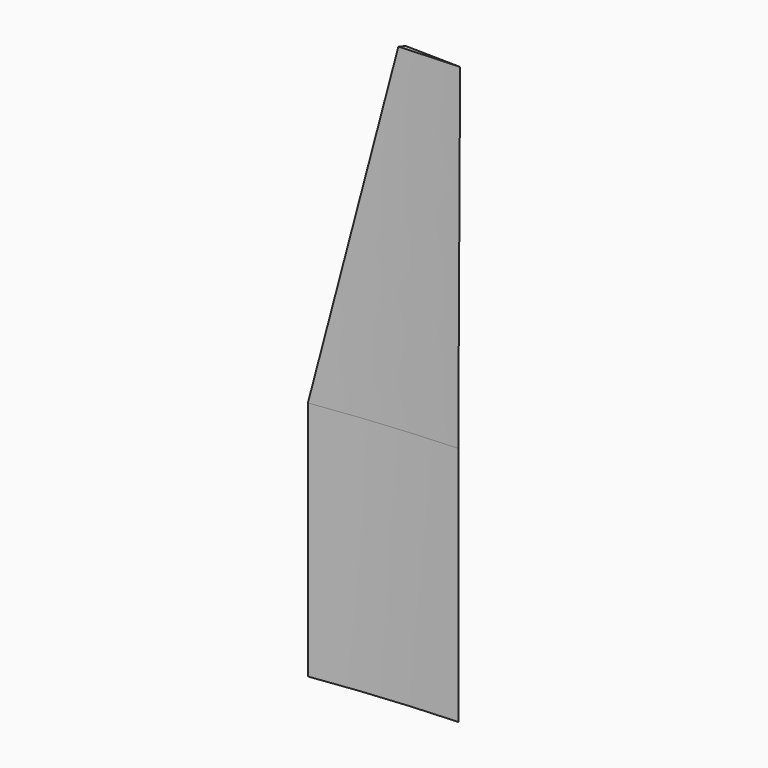
from build123d import *


with BuildPart() as f5:
    # F0 (on Top) → F5 section 0
    with BuildSketch(Plane.XY):
        with BuildLine():
            Line((17, 0), (0, 0))
            Line((0, 0), (-12, -2.7704182935))
            ThreePointArc((-12, -2.7704182935), (2.4660676715, -1.0300145801), (17, 0))
        make_face()
    # F2 (on offset) → F5 section 1
    with BuildSketch(Plane.XY.offset(50)):
        with BuildLine():
            Line((0, 0), (-12, -2.7704182935))
            ThreePointArc((-12, -2.7704182935), (2.4660676715, -1.0300145801), (17, 0))
            Line((17, 0), (0, 0))
        make_face()
    loft()

    # F4 (on offset) → F6 section 0
    with BuildSketch(Plane.XY.offset(120)):
        Polygon((5.2862134762, -0.8986583562), (17.559112981, -0.2226724464), (6.1424621381, 0), align=None)
    # F2 (on offset) → F6 section 1
    with BuildSketch(Plane.XY.offset(50)):
        with BuildLine():
            Line((0, 0), (-12, -2.7704182935))
            ThreePointArc((-12, -2.7704182935), (2.4660676715, -1.0300145801), (17, 0))
            Line((17, 0), (0, 0))
        make_face()
    loft()


solid = f5.part
